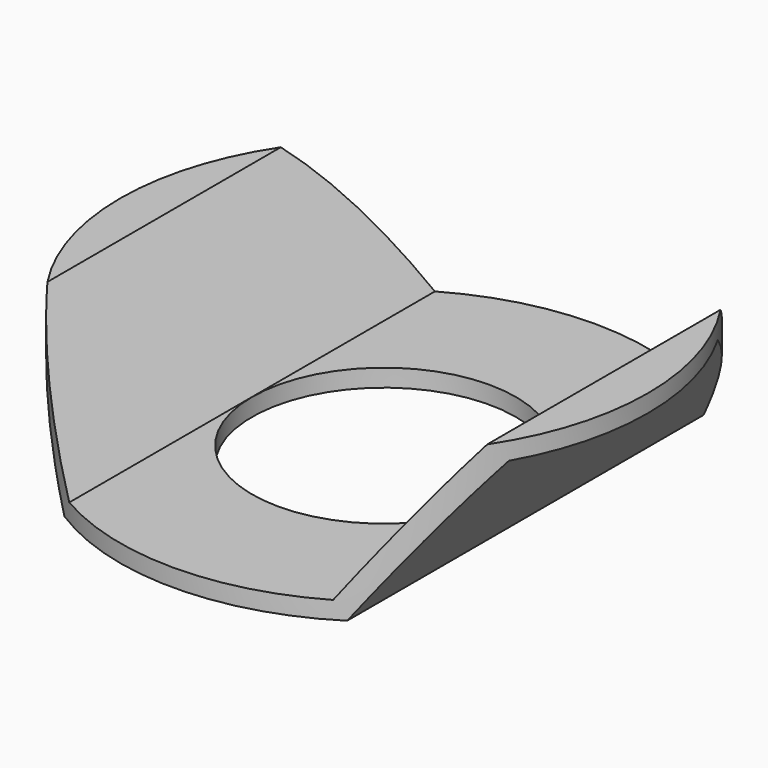
from build123d import *

# Parameters (mm, degrees)
F1_DEPTH = 30
F3_START = -25
F2_R     = 15
F2_R_2   = 7.5
F3_DEPTH = 32.501


with BuildPart() as f1:
    # F0 (on Front) → F1 (new body)
    with BuildSketch(Plane.XZ):
        Polygon((0, -1), (0, 0), (-7.5, 0), (-12.5, 7.5), (-15, 7.5), (-15, 6.5), (-13.0351837585, 6.5), (-8.0351837585, -1), align=None)
        Polygon((7.5, 0), (0, 0), (0, -1), (8.0351837585, -1), (13.0351837585, 6.5), (15, 6.5), (15, 7.5), (12.5, 7.5), align=None)
    extrude(amount=F1_DEPTH)

    # F2 (on Top) → F3 (intersect)
    with BuildSketch(Plane.XY.offset(F3_START)):
        with Locations((0, -15)):
            Circle(F2_R)
        with Locations((0, -15)):
            Circle(F2_R_2, mode=Mode.SUBTRACT)
    extrude(amount=F3_DEPTH, mode=Mode.INTERSECT)


solid = f1.part
